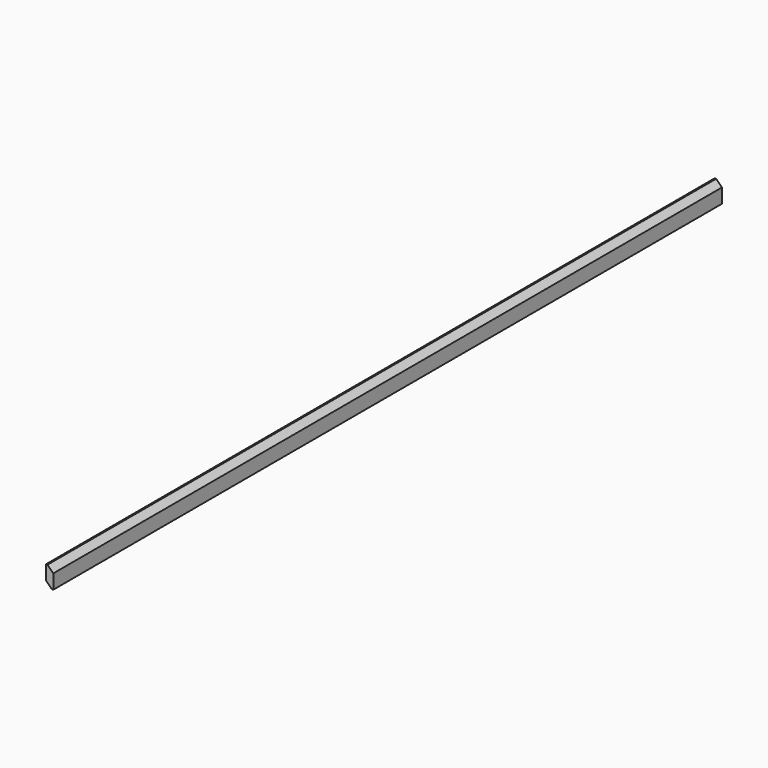
from build123d import *

# Parameters (mm, degrees)
BOX003_W        = 25
BOX003_H        = 2900
BOX003_DEPTH    = 70
CHAMFER_SIZE    = 20
CHAMFER001_SIZE = 20


with BuildPart() as part:
    # Box003 → Box003 (new body)
    with BuildSketch(Plane(origin=(200, 0, 0), x_dir=(1, 0, 0), z_dir=(0, 0, 1))):
        with Locations((12.5, 1450)):
            Rectangle(BOX003_W, BOX003_H)
    extrude(amount=BOX003_DEPTH)

    # Chamfer
    chamfer_edges = [part.edges().sort_by_distance(p)[0] for p in [
        (225, 1450, 70),
    ]]
    chamfer(chamfer_edges, length=CHAMFER_SIZE)

    # Chamfer001
    chamfer001_edges = [part.edges().sort_by_distance(p)[0] for p in [
        (200, 1450, 0),
    ]]
    chamfer(chamfer001_edges, length=CHAMFER001_SIZE)


with BuildPart() as part_1:
    # Chamfer001 placement: moved
    add(part.part.moved(Location((-140, 100, 10))))


solid = part_1.part
